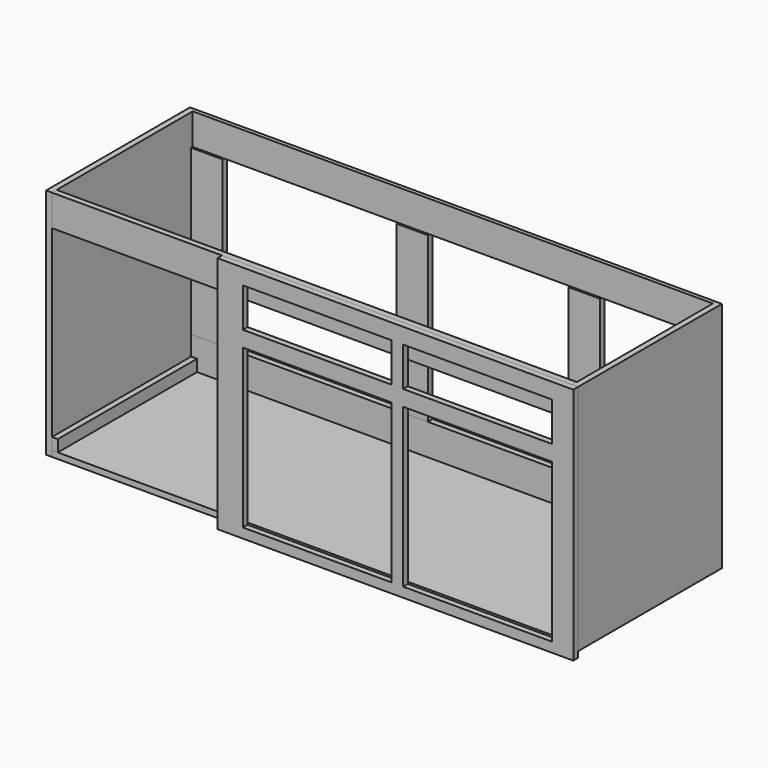
from build123d import *

# Parameters (mm, degrees)
F0_W      = 19.05
F0_H      = 584.2
F1_DEPTH  = 755.65
F2_W      = 584.2
F2_H      = 19.05
F3_DEPTH  = 1689.1
F4_W      = 19.05
F4_H      = 38.1
F5_DEPTH  = 565.15
F6_W      = 19.05
F6_H      = 101.6
F6_W_2    = 12.7
F7_DEPTH  = 1689.1
F8_W      = 101.6
F8_H      = 19.05
F9_DEPTH  = 533.4
F10_W     = 1155.7
F10_H     = 774.7
F11_DEPTH = 19.05
F12_W     = 482.6
F12_H     = 127
F12_H_2   = 514.35
F13_DEPTH = 19.05


with BuildPart() as f1:
    # F0 (on Top) → F1 (new body)
    with BuildSketch(Plane.XY):
        with Locations((-854.075, 0)):
            Rectangle(F0_W, F0_H)
        with Locations((854.075, 0)):
            Rectangle(F0_W, F0_H)
    extrude(amount=F1_DEPTH)


with BuildPart() as f3:
    # F2 (on face) → F3 (new body)
    with BuildSketch(Plane.YZ.offset(-844.55)):
        with Locations((0, 9.525)):
            Rectangle(F2_W, F2_H)
    extrude(amount=F3_DEPTH)


with BuildPart() as f5:
    # F4 (on face) → F5 (new body)
    with BuildSketch(Plane.XZ.offset(292.1)):
        with Locations((-835.025, 38.1)):
            Rectangle(F4_W, F4_H)
        with Locations((835.025, 38.1)):
            Rectangle(F4_W, F4_H)
    extrude(amount=-F5_DEPTH)


with BuildPart() as f7:
    # F6 (on face) → F7 (new body)
    with BuildSketch(Plane.YZ.offset(-844.55)):
        with Locations((-282.575, 704.85)):
            Rectangle(F6_W, F6_H)
        with Locations((285.75, 704.85)):
            Rectangle(F6_W_2, F6_H)
        with Locations((282.575, 69.85)):
            Rectangle(F6_W, F6_H)
    extrude(amount=F7_DEPTH)


with BuildPart() as f9:
    # F8 (on face) → F9 (new body)
    with BuildSketch(Plane.XY.offset(120.65)):
        with Locations((-793.75, 282.575)):
            Rectangle(F8_W, F8_H)
        with Locations((431.8, 282.575)):
            Rectangle(F8_W, F8_H)
        with Locations((-127, 282.575)):
            Rectangle(F8_W, F8_H)
        with Locations((793.75, 282.575)):
            Rectangle(F8_W, F8_H)
    extrude(amount=F9_DEPTH)


with BuildPart() as f11:
    # F10 (on face) → F11 (new body)
    with BuildSketch(Plane.XZ.offset(292.1)):
        with Locations((285.75, 368.3)):
            Rectangle(F10_W, F10_H)
    extrude(amount=F11_DEPTH)

    # F12 (on face) → F13 (cut)
    with BuildSketch(Plane.XZ.offset(311.15)):
        with Locations((552.45, 641.35)):
            Rectangle(F12_W, F12_H)
        with Locations((31.75, 269.875)):
            Rectangle(F12_W, F12_H_2)
        with Locations((552.45, 269.875)):
            Rectangle(F12_W, F12_H_2)
        with Locations((31.75, 641.35)):
            Rectangle(F12_W, F12_H)
    extrude(amount=-F13_DEPTH, mode=Mode.SUBTRACT)


solid = Compound([f1.part, f3.part, f5.part, f7.part, f9.part, f11.part])
